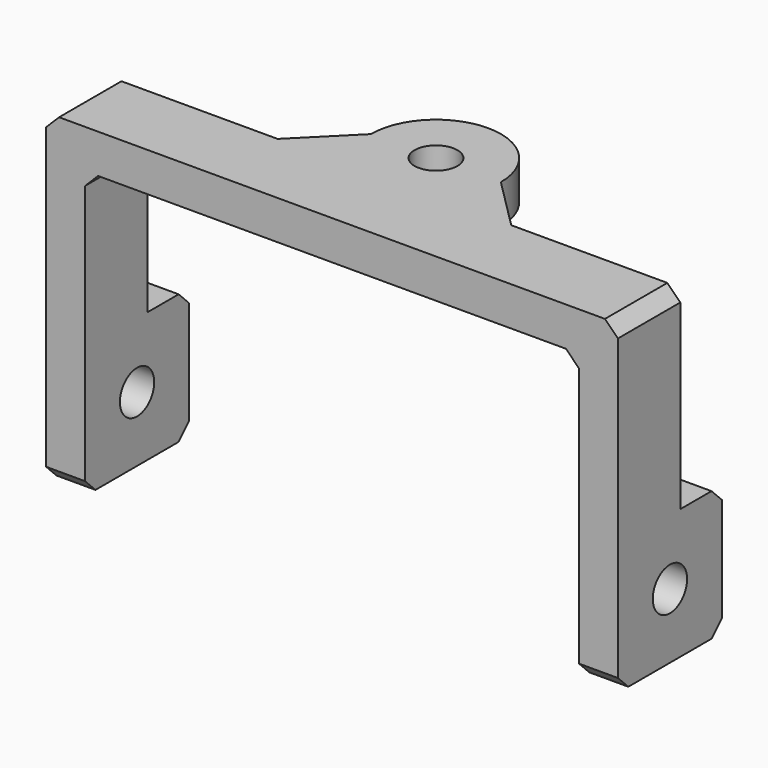
from build123d import *

# Parameters (mm, degrees)
CYLINDER008_R              = 1.65
CYLINDER008_DEPTH          = 3
CYLINDER007_R              = 1.65
CYLINDER007_DEPTH          = 3
CYLINDER012_R              = 1.65
CYLINDER012_DEPTH          = 3
BOX006_W                   = 3
BOX006_H                   = 10
BOX006_DEPTH               = 10
CHAMFER002_SIZE            = 1
BOX005_W                   = 10
BOX005_H                   = 3
BOX005_DEPTH               = 10
CYLINDER011_R              = 5
CYLINDER011_DEPTH          = 3
BOX004_W                   = 44
BOX004_H                   = 3
BOX004_DEPTH               = 6
BOX003_W                   = 3
BOX003_H                   = 17
BOX003_DEPTH               = 6
BOX002_W                   = 3
BOX002_H                   = 17
BOX002_DEPTH               = 6
BOX007_W                   = 3
BOX007_H                   = 10
BOX007_DEPTH               = 10
CHAMFER003_SIZE            = 1
CHAMFER_SIZE               = 1
CHAMFER004_SIZE            = 3.99
CHAMFER004_PLACEMENT_ANGLE = 90


with BuildPart() as cylinder008:
    # Cylinder008 → Cylinder008 (new body)
    with BuildSketch(Plane(origin=(-19, 0, 5), x_dir=(0, 0, 1), z_dir=(-1, 0, 0))):
        Circle(CYLINDER008_R)
    extrude(amount=CYLINDER008_DEPTH)


with BuildPart() as cylinder007:
    # Cylinder007 → Cylinder007 (new body)
    with BuildSketch(Plane(origin=(22, 0, 5), x_dir=(0, 0, 1), z_dir=(-1, 0, 0))):
        Circle(CYLINDER007_R)
    extrude(amount=CYLINDER007_DEPTH)


with BuildPart() as fusion005:
    # Cylinder012 → Cylinder012 (new body)
    with BuildSketch(Plane(origin=(0, 17, 0), x_dir=(1, 0, 0), z_dir=(0, 1, 0))):
        Circle(CYLINDER012_R)
    extrude(amount=CYLINDER012_DEPTH)

    # Fusion005: union Cylinder008, Cylinder007
    add(cylinder008.part)
    add(cylinder007.part)


with BuildPart() as chamfer002:
    # Box006 → Box006 (new body)
    with BuildSketch(Plane(origin=(-22, -5, 0), x_dir=(1, 0, 0), z_dir=(0, 0, 1))):
        with Locations((1.5, 5)):
            Rectangle(BOX006_W, BOX006_H)
    extrude(amount=BOX006_DEPTH)

    # Chamfer002
    chamfer002_edges = [chamfer002.edges().sort_by_distance(p)[0] for p in [
        (-20.5, -5, 0),
        (-20.5, -5, 10),
        (-20.5, 5, 0),
    ]]
    chamfer(chamfer002_edges, length=CHAMFER002_SIZE)


with BuildPart() as cube005:
    # Box005 → Box005 (new body)
    with BuildSketch(Plane(origin=(-5, 17, 0), x_dir=(1, 0, 0), z_dir=(0, 0, 1))):
        with Locations((5, 1.5)):
            Rectangle(BOX005_W, BOX005_H)
    extrude(amount=BOX005_DEPTH)


with BuildPart() as cylinder011:
    # Cylinder011 → Cylinder011 (new body)
    with BuildSketch(Plane(origin=(0, 17, 0), x_dir=(1, 0, 0), z_dir=(0, 1, 0))):
        Circle(CYLINDER011_R)
    extrude(amount=CYLINDER011_DEPTH)


with BuildPart() as cube004:
    # Box004 → Box004 (new body)
    with BuildSketch(Plane(origin=(-22, 17, 4), x_dir=(1, 0, 0), z_dir=(0, 0, 1))):
        with Locations((22, 1.5)):
            Rectangle(BOX004_W, BOX004_H)
    extrude(amount=BOX004_DEPTH)


with BuildPart() as cube003:
    # Box003 → Box003 (new body)
    with BuildSketch(Plane(origin=(19, 0, 4), x_dir=(1, 0, 0), z_dir=(0, 0, 1))):
        with Locations((1.5, 8.5)):
            Rectangle(BOX003_W, BOX003_H)
    extrude(amount=BOX003_DEPTH)


with BuildPart() as cube002:
    # Box002 → Box002 (new body)
    with BuildSketch(Plane(origin=(-22, 0, 4), x_dir=(1, 0, 0), z_dir=(0, 0, 1))):
        with Locations((1.5, 8.5)):
            Rectangle(BOX002_W, BOX002_H)
    extrude(amount=BOX002_DEPTH)


with BuildPart() as chamfer004:
    # Box007 → Box007 (new body)
    with BuildSketch(Plane(origin=(19, -5, 0), x_dir=(1, 0, 0), z_dir=(0, 0, 1))):
        with Locations((1.5, 5)):
            Rectangle(BOX007_W, BOX007_H)
    extrude(amount=BOX007_DEPTH)

    # Chamfer003
    chamfer003_edges = [chamfer004.edges().sort_by_distance(p)[0] for p in [
        (20.5, -5, 0),
        (20.5, -5, 10),
        (20.5, 5, 0),
    ]]
    chamfer(chamfer003_edges, length=CHAMFER003_SIZE)

    # Fusion009: union Chamfer002, Cube005, Cylinder011, Cube004, Cube003, Cube002
    add(chamfer002.part)
    add(cube005.part)
    add(cylinder011.part)
    add(cube004.part)
    add(cube003.part)
    add(cube002.part)

    # Cut001: cut Fusion005
    add(fusion005.part, mode=Mode.SUBTRACT)

    # Chamfer
    chamfer_edges = [chamfer004.edges().sort_by_distance(p)[0] for p in [
        (-22, 20, 7),
        (-19, 17, 7),
        (19, 17, 7),
        (22, 20, 7),
    ]]
    chamfer(chamfer_edges, length=CHAMFER_SIZE)

    # Chamfer004
    chamfer004_edges = [chamfer004.edges().sort_by_distance(p)[0] for p in [
        (-5, 18.5, 4),
        (5, 18.5, 4),
    ]]
    chamfer(chamfer004_edges, length=CHAMFER004_SIZE)


with BuildPart() as chamfer004_1:
    # Chamfer004 placement: moved
    add(chamfer004.part.rotate(Axis((0, 0, 0), (1, 0, 0)), CHAMFER004_PLACEMENT_ANGLE))


solid = chamfer004_1.part
